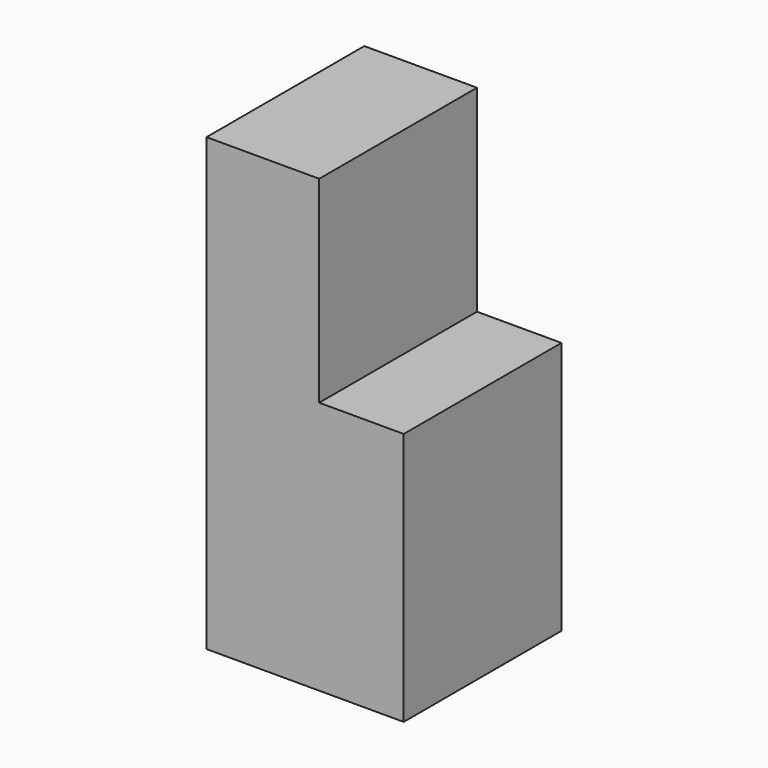
from build123d import *

# Parameters (mm, degrees)
F0_W     = 88.9
F0_H     = 88.9
F1_DEPTH = 203.2
F3_DEPTH = 88.9


with BuildPart() as f1:
    # F0 (on Top) → F1 (new body)
    with BuildSketch(Plane.XY):
        with Locations((2.694333, -0.491857)):
            Rectangle(F0_W, F0_H)
    extrude(amount=F1_DEPTH)

    # F2 (on face) → F3 (cut)
    with BuildSketch(Plane.XY.offset(203.2)):
        Polygon((47.144333, 43.958143), (9.044333, 43.958143), (9.044333, 5.858143), (9.044333, -44.941857), (47.144333, -44.941857), (47.144333, 5.858143), align=None)
    extrude(amount=-F3_DEPTH, mode=Mode.SUBTRACT)


solid = f1.part
